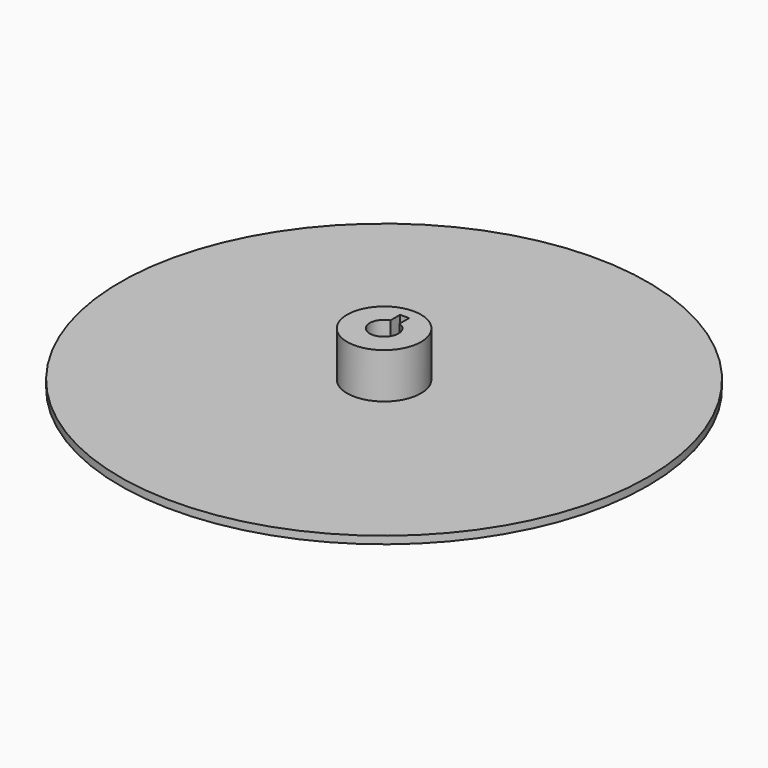
from build123d import *

# Parameters (mm, degrees)
F3_DEPTH = 30


with BuildPart() as f1:
    # F0 (on Front) → F1 (revolve)
    with BuildSketch(Plane.XZ):
        Polygon((0, 0), (175, 0), (175, 5), (24.5, 5), (24.5, 35), (9.5, 35), (9.5, 5), (0, 5), align=None)
    revolve(axis=Axis((0, 0, 34.629346), (0, 0, 1)))

    # F2 (on face) → F3 (cut)
    with BuildSketch(Plane.XY.offset(35)):
        with BuildLine():
            Line((-3, 17), (-3, 9.013878))
            ThreePointArc((-3, 9.013878), (0, 9.5), (3, 9.013878))
            Line((3, 9.013878), (3, 17))
            Line((3, 17), (-3, 17))
        make_face()
    extrude(amount=-F3_DEPTH, mode=Mode.SUBTRACT)


solid = f1.part
